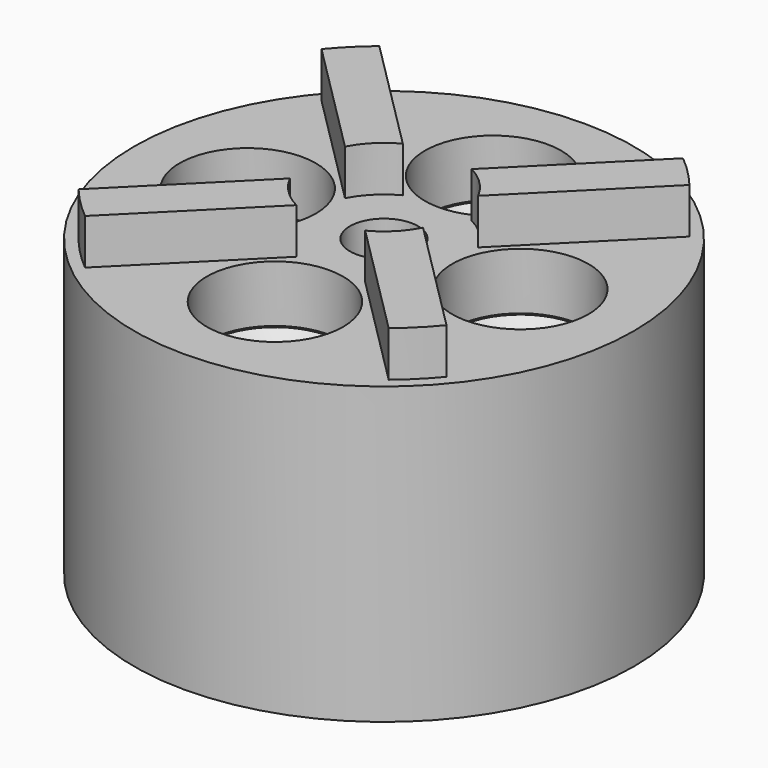
from build123d import *

# Parameters (mm, degrees)
SKETCH_R        = 11
SKETCH_R_2      = 1.7
PAD_DEPTH       = 13
SKETCH003_R     = 1.5
POCKET001_DEPTH = 6.5
PAD001_DEPTH    = 2
SKETCH006_R     = 3
POCKET003_DEPTH = 2.5
CHAMFER_SIZE    = 1.2
CHAMFER001_SIZE = 1.2
CHAMFER002_SIZE = 1.2
CHAMFER003_SIZE = 1.2
SKETCH007_R     = 2.2
POCKET_DEPTH    = 6


with BuildPart() as part:
    # Sketch → Pad (new body)
    with BuildSketch(Plane.XY):
        Circle(SKETCH_R)
        with Locations((0, 6)):
            Circle(SKETCH_R_2, mode=Mode.SUBTRACT)
        with Locations((-6, 0)):
            Circle(SKETCH_R_2, mode=Mode.SUBTRACT)
        with Locations((6, 0)):
            Circle(SKETCH_R_2, mode=Mode.SUBTRACT)
        with Locations((0, -6)):
            Circle(SKETCH_R_2, mode=Mode.SUBTRACT)
    extrude(amount=PAD_DEPTH)

    # Sketch003 → Pocket001 (cut)
    with BuildSketch(Plane.XY.offset(13)):
        Circle(SKETCH003_R)
    extrude(amount=-POCKET001_DEPTH, mode=Mode.SUBTRACT)

    # Sketch004 → Pad001 (new body)
    with BuildSketch(Plane.XY.offset(13)):
        with BuildLine():
            Line((-8.09798, 6.683766), (-2.930842, 1.516629))
            ThreePointArc((-1.516629, 2.930842), (-2.333452, 2.333452), (-2.930842, 1.516629))
            Line((-6.683766, 8.09798), (-1.516629, 2.930842))
            ThreePointArc((-6.683766, 8.09798), (-7.424621, 7.424621), (-8.09798, 6.683766))
        make_face()
        with BuildLine():
            Line((2.930842, -1.516629), (8.09798, -6.683766))
            ThreePointArc((6.683766, -8.09798), (7.424621, -7.424621), (8.09798, -6.683766))
            Line((1.516629, -2.930842), (6.683766, -8.09798))
            ThreePointArc((1.516629, -2.930842), (2.333452, -2.333452), (2.930842, -1.516629))
        make_face()
        with BuildLine():
            ThreePointArc((8.09798, 6.683766), (7.424621, 7.424621), (6.683766, 8.09798))
            Line((1.516629, 2.930842), (6.683766, 8.09798))
            ThreePointArc((2.930842, 1.516629), (2.333452, 2.333452), (1.516629, 2.930842))
            Line((8.09798, 6.683766), (2.930842, 1.516629))
        make_face()
        with BuildLine():
            ThreePointArc((-2.930842, -1.516629), (-2.333452, -2.333452), (-1.516629, -2.930842))
            Line((-1.516629, -2.930842), (-6.683766, -8.09798))
            ThreePointArc((-8.09798, -6.683766), (-7.424621, -7.424621), (-6.683766, -8.09798))
            Line((-8.09798, -6.683766), (-2.930842, -1.516629))
        make_face()
    extrude(amount=PAD001_DEPTH)

    # Sketch006 → Pocket003 (cut)
    with BuildSketch(Plane.XY.offset(13)):
        with Locations((0, 6)):
            Circle(SKETCH006_R)
        with Locations((-6, 0)):
            Circle(SKETCH006_R)
        with Locations((6, 0)):
            Circle(SKETCH006_R)
        with Locations((0, -6)):
            Circle(SKETCH006_R)
    extrude(amount=-POCKET003_DEPTH, mode=Mode.SUBTRACT)

    # Chamfer
    chamfer_edges = [part.edges().sort_by_distance(p)[0] for p in [
        (-1.7, 6, 10.5),
    ]]
    chamfer(chamfer_edges, length=CHAMFER_SIZE)

    # Chamfer001
    chamfer001_edges = [part.edges().sort_by_distance(p)[0] for p in [
        (-7.7, 0, 10.5),
    ]]
    chamfer(chamfer001_edges, length=CHAMFER001_SIZE)

    # Chamfer002
    chamfer002_edges = [part.edges().sort_by_distance(p)[0] for p in [
        (-1.7, -6, 10.5),
    ]]
    chamfer(chamfer002_edges, length=CHAMFER002_SIZE)

    # Chamfer003
    chamfer003_edges = [part.edges().sort_by_distance(p)[0] for p in [
        (4.3, 0, 10.5),
    ]]
    chamfer(chamfer003_edges, length=CHAMFER003_SIZE)

    # Sketch007 → Pocket (cut)
    with BuildSketch(Plane(origin=(0, 0, 0), x_dir=(1, 0, 0), z_dir=(0, 0, -1))):
        Circle(SKETCH007_R)
    extrude(amount=-POCKET_DEPTH, mode=Mode.SUBTRACT)


solid = part.part
